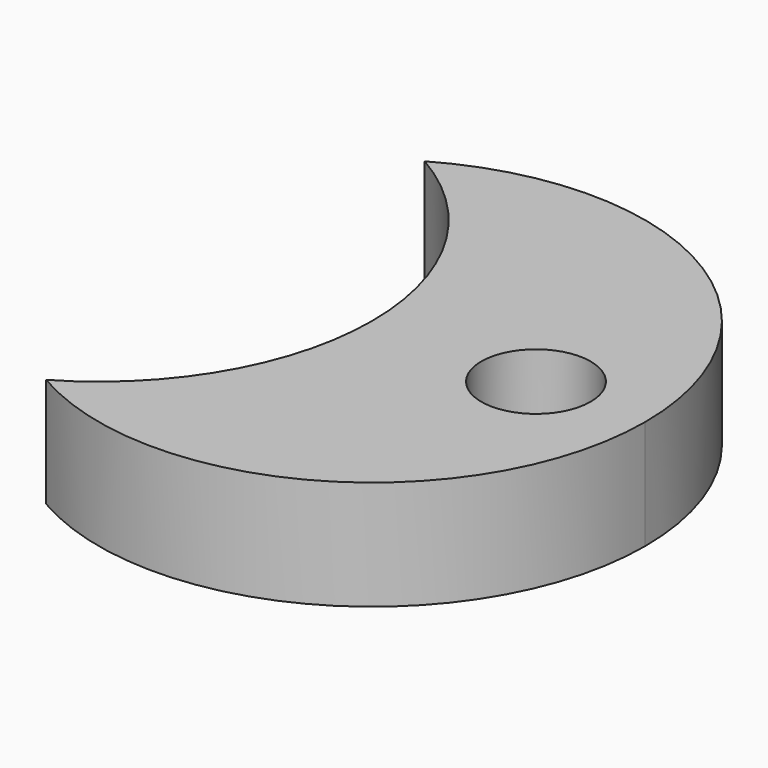
from build123d import *

# Parameters (mm, degrees)
F0_R     = 5
F1_DEPTH = 10


with BuildPart() as f1:
    # F0 (on Top) → F1 (new body)
    with BuildSketch(Plane.XY):
        with BuildLine():
            ThreePointArc((-12.5, -21.650635), (12.5, -21.650635), (25, 0))
            ThreePointArc((25, 0), (12.5, 21.650635), (-12.5, 21.650635))
            ThreePointArc((-12.5, 21.650635), (-3.349365, 12.5), (0, 0))
            ThreePointArc((0, 0), (-3.349365, -12.5), (-12.5, -21.650635))
        make_face()
        with Locations((15, 0)):
            Circle(F0_R, mode=Mode.SUBTRACT)
    extrude(amount=F1_DEPTH)


solid = f1.part
